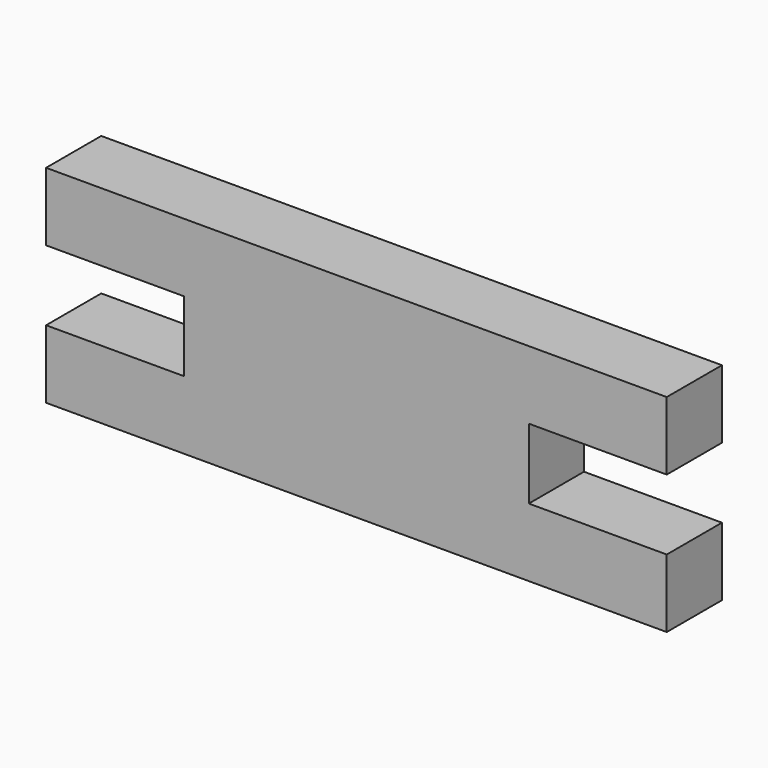
from build123d import *

# Parameters (mm, degrees)
PAD_DEPTH = 2.5


with BuildPart() as part:
    # Sketch → Pad (new body, symmetric)
    with BuildSketch(Plane.XZ):
        Polygon((0, 7.5), (0, 2.55), (10, 2.55), (10, -2.55), (0, -2.55), (0, -7.5), (45, -7.5), (45, -2.55), (35, -2.55), (35, 2.55), (45, 2.55), (45, 7.5), align=None)
    extrude(amount=PAD_DEPTH, both=True)


solid = part.part
